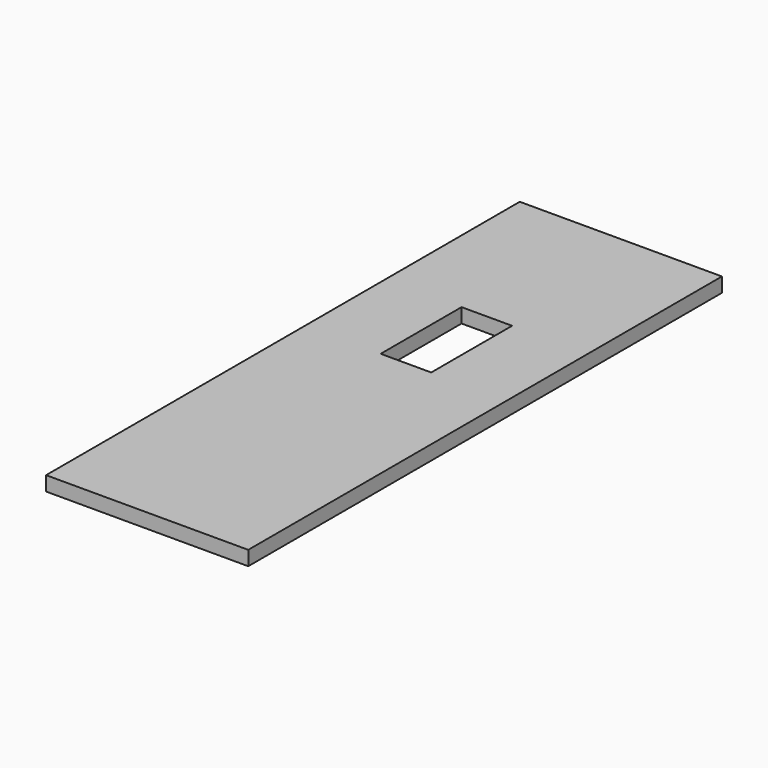
from build123d import *

# Parameters (mm, degrees)
F1_DEPTH = 3.175


with BuildPart() as f1:
    # F0 (on Top) → F1 (new body)
    with BuildSketch(Plane.XY):
        Polygon((0, -65.0875), (22.225, -65.0875), (22.225, 65.0875), (0, 65.0875), (0, 28.2575), (5.55625, 28.2575), (5.55625, 6.0325), (0, 6.0325), align=None)
        Polygon((-22.225, -65.0875), (0, -65.0875), (0, 6.0325), (-5.55625, 6.0325), (-5.55625, 28.2575), (0, 28.2575), (0, 65.0875), (-22.225, 65.0875), align=None)
    extrude(amount=F1_DEPTH)


solid = f1.part
